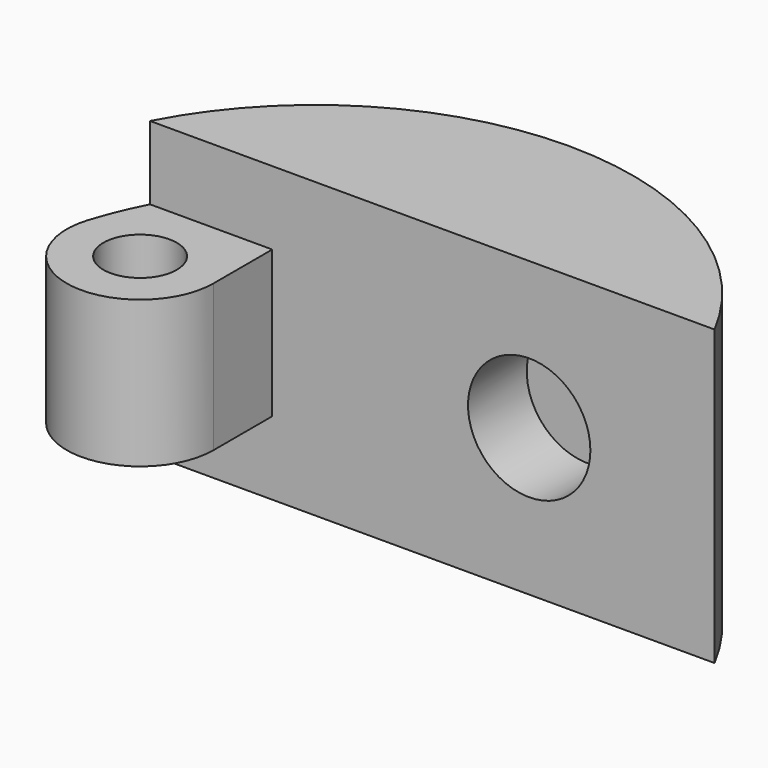
from build123d import *

# Parameters (mm, degrees)
F1_DEPTH = 19.05
F2_W     = 4.7625
F2_H     = 4.7625
F3_DEPTH = 25.4
F4_R     = 2.38125
F5_DEPTH = 14.2885
F6_R     = 3.96875
F7_DEPTH = 4.7625


with BuildPart() as f1:
    # F0 (on Top) → F1 (new body)
    with BuildSketch(Plane.XY):
        with BuildLine():
            Line((-10.381285, 9.525), (18.307943, 9.525))
            ThreePointArc((18.307943, 9.525), (-1.803848, 20.558515), (-19.68692, 6.19125))
            ThreePointArc((-19.68692, 6.19125), (-15.866531, 0.055161), (-10.381285, 4.7625))
            Line((-10.381285, 4.7625), (-10.381285, 9.525))
        make_face()
    extrude(amount=F1_DEPTH)

    # F2 (on face) → F3 (cut)
    with BuildSketch(Plane.YZ.offset(-10.381285)):
        with Locations((7.14375, 16.66875)):
            Rectangle(F2_W, F2_H)
        with Locations((2.38125, 16.66875)):
            Rectangle(F2_W, F2_H)
        with Locations((7.14375, 2.38125)):
            Rectangle(F2_W, F2_H)
        with Locations((2.38125, 2.38125)):
            Rectangle(F2_W, F2_H)
    extrude(amount=-F3_DEPTH, mode=Mode.SUBTRACT)

    # F4 (on face) → F5 (cut, through all)
    with BuildSketch(Plane.XY.offset(14.2875)):
        with Locations((-15.143785, 4.7625)):
            Circle(F4_R)
    extrude(amount=-F5_DEPTH, mode=Mode.SUBTRACT)

    # F6 (on face) → F7 (cut)
    with BuildSketch(Plane.XZ.offset(-9.525)):
        with Locations((6.287465, 9.525)):
            Circle(F6_R)
    extrude(amount=-F7_DEPTH, mode=Mode.SUBTRACT)


solid = f1.part
